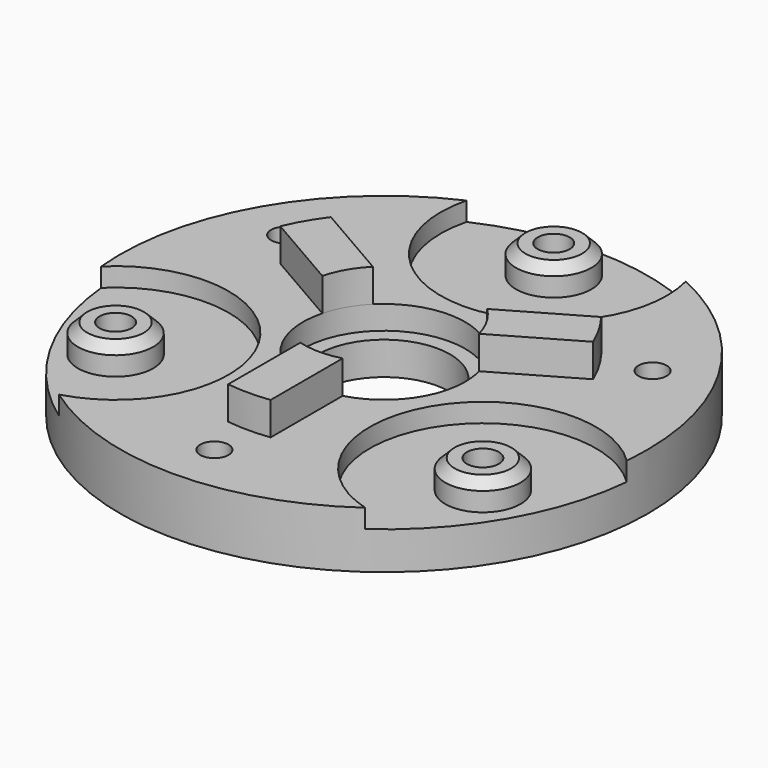
from build123d import *

# Parameters (mm, degrees)
SKETCH_R           = 28
SKETCH_R_2         = 7
PAD_DEPTH          = 6
SKETCH007_R        = 12
SKETCH007_R_2      = 8.6
POCKET002_DEPTH    = 2
SKETCH001_R        = 4
PAD001_DEPTH       = 3
PAD002_DEPTH       = 3.5
POLARPATTERN_COUNT = 3
SKETCH003_R        = 1.7
SKETCH003_R_2      = 1.5
POCKET001_DEPTH    = 3.5
POCKET_DEPTH       = 3.4
CHAMFER_SIZE       = 1
CHAMFER001_SIZE    = 1
CHAMFER002_SIZE    = 1
SKETCH008_R        = 8.6
POCKET003_DEPTH    = 2.5


with BuildPart() as part:
    # Sketch → Pad (new body)
    with BuildSketch(Plane.XY.offset(25)):
        Circle(SKETCH_R)
        Circle(SKETCH_R_2, mode=Mode.SUBTRACT)
    extrude(amount=PAD_DEPTH)

    # Sketch007 → Pocket002 (cut)
    with BuildSketch(Plane.XY.offset(31)):
        with Locations((0, 22.5)):
            Circle(SKETCH007_R)
        with Locations((-19.485572, -11.25)):
            Circle(SKETCH007_R)
        with Locations((19.485572, -11.25)):
            Circle(SKETCH007_R)
        Circle(SKETCH007_R_2)
    extrude(amount=-POCKET002_DEPTH, mode=Mode.SUBTRACT)

    # Sketch001 → Pad001 (new body)
    with BuildSketch(Plane.XY.offset(29)):
        with Locations((0, 22.5)):
            Circle(SKETCH001_R)
        with Locations((-19.485572, -11.25)):
            Circle(SKETCH001_R)
        with Locations((19.485572, -11.25)):
            Circle(SKETCH001_R)
    extrude(amount=PAD001_DEPTH)

    # Sketch005 → Pad002 (new body)
    with BuildSketch(Plane.XY.offset(31)):
        with BuildLine():
            Line((-2.25, -8.300452), (-2.25, -17.858821))
            ThreePointArc((-2.25, -17.858821), (0, -18), (2.25, -17.858821))
            Line((2.25, -8.300452), (2.25, -17.858821))
            ThreePointArc((-2.25, -8.300452), (0, -8.6), (2.25, -8.300452))
        make_face()
    pad002 = extrude(amount=PAD002_DEPTH)

    # PolarPattern: Pad002 ×3 about axis
    polarpattern_axis = Axis((0, 0, 31), (0, 0, 1))
    for i in range(1, POLARPATTERN_COUNT):
        add(pad002.rotate(polarpattern_axis, i * 360 / POLARPATTERN_COUNT))

    # Sketch003 → Pocket001 (cut)
    with BuildSketch(Plane.XY.offset(32)):
        with Locations((0, 22.5)):
            Circle(SKETCH003_R)
        with Locations((-19.485572, -11.25)):
            Circle(SKETCH003_R)
        with Locations((19.485572, -11.25)):
            Circle(SKETCH003_R)
        with Locations((-19.485572, 11.25)):
            Circle(SKETCH003_R_2)
        with Locations((19.485572, 11.25)):
            Circle(SKETCH003_R_2)
        with Locations((0, -22.5)):
            Circle(SKETCH003_R_2)
    extrude(amount=-POCKET001_DEPTH, mode=Mode.SUBTRACT)

    # Sketch004 → Pocket (cut)
    with BuildSketch(Plane(origin=(0, 0, 25), x_dir=(1, 0, 0), z_dir=(0, 0, -1))):
        Polygon((-16.685572, 9.633419), (-16.685572, 12.866581), (-19.485572, 14.483162), (-22.285572, 12.866581), (-22.285572, 9.633419), (-19.485572, 8.016838), align=None)
        Polygon((-2.8, 24.116581), (-2.8, 20.883419), (0, 19.266838), (2.8, 20.883419), (2.8, 24.116581), (0, 25.733162), align=None)
        Polygon((19.485572, 14.483162), (16.685572, 12.866581), (16.685572, 9.633419), (19.485572, 8.016838), (22.285572, 9.633419), (22.285572, 12.866581), align=None)
        Polygon((19.485572, -8.016838), (16.685572, -9.633419), (16.685572, -12.866581), (19.485572, -14.483162), (22.285572, -12.866581), (22.285572, -9.633419), align=None)
        Polygon((-22.285572, -9.633419), (-22.285572, -12.866581), (-19.485572, -14.483162), (-16.685572, -12.866581), (-16.685572, -9.633419), (-19.485572, -8.016838), align=None)
        Polygon((-2.8, -20.883419), (-2.8, -24.116581), (0, -25.733162), (2.8, -24.116581), (2.8, -20.883419), (0, -19.266838), align=None)
    extrude(amount=-POCKET_DEPTH, mode=Mode.SUBTRACT)

    # Chamfer
    chamfer_edges = [part.edges().sort_by_distance(p)[0] for p in [
        (15.485572, -11.25, 32),
    ]]
    chamfer(chamfer_edges, length=CHAMFER_SIZE)

    # Chamfer001
    chamfer001_edges = [part.edges().sort_by_distance(p)[0] for p in [
        (-23.485572, -11.25, 32),
    ]]
    chamfer(chamfer001_edges, length=CHAMFER001_SIZE)

    # Chamfer002
    chamfer002_edges = [part.edges().sort_by_distance(p)[0] for p in [
        (-4, 22.5, 32),
    ]]
    chamfer(chamfer002_edges, length=CHAMFER002_SIZE)

    # Sketch008 → Pocket003 (cut)
    with BuildSketch(Plane.XY.offset(31)):
        Circle(SKETCH008_R)
    extrude(amount=-POCKET003_DEPTH, mode=Mode.SUBTRACT)


solid = part.part
